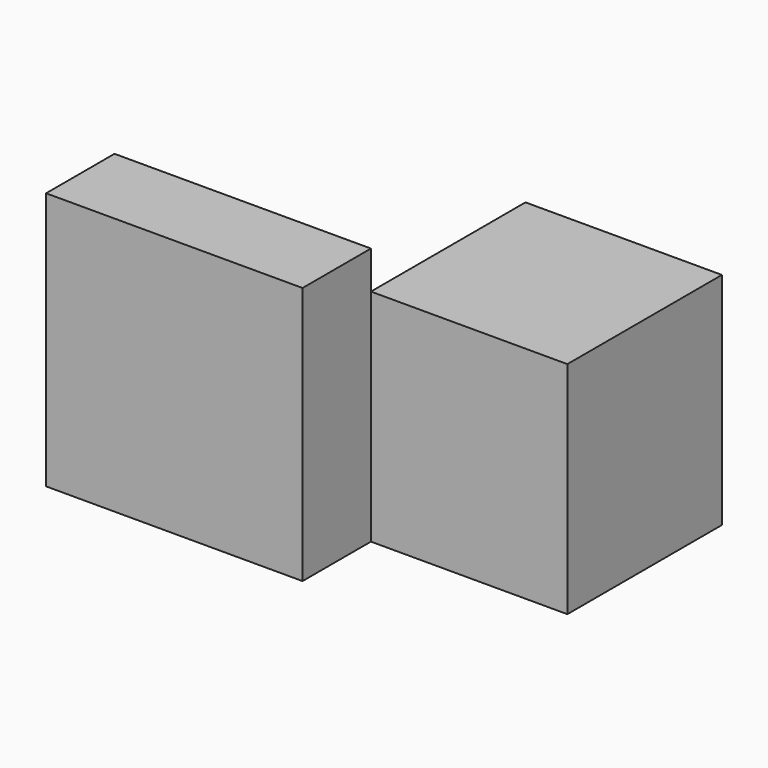
from build123d import *

# Parameters (mm, degrees)
F0_W      = 29.186036
F0_H      = 32.708492
F1_DEPTH  = 28.702
F3_DEPTH  = 25.4
F3_FACE_W = 38.100344
F3_FACE_H = 38.3358
F4_DEPTH  = 12.7


with BuildPart() as f1:
    # F0 (on Front) → F1 (new body)
    with BuildSketch(Plane.XZ):
        with Locations((14.593018, 16.354246)):
            Rectangle(F0_W, F0_H)
    extrude(amount=F1_DEPTH)


with BuildPart() as f3:
    # F2 (on face) → F3 (new body)
    with BuildSketch(Plane.XZ.offset(28.702)):
        Polygon((-38.100343, 0), (0, 0), (0, 32.708492), (0, 38.3358), (-38.100343, 38.3358), align=None)
    extrude(amount=F3_DEPTH)

    # F3_face (on face) → F4 (cut)
    with BuildSketch(Plane(origin=(-19.050172, -54.102, 19.1679), x_dir=(1, 0, 0), z_dir=(0, -1, 0))):
        Rectangle(F3_FACE_W, F3_FACE_H)
    extrude(amount=-F4_DEPTH, mode=Mode.SUBTRACT)


solid = Compound([f1.part, f3.part])
